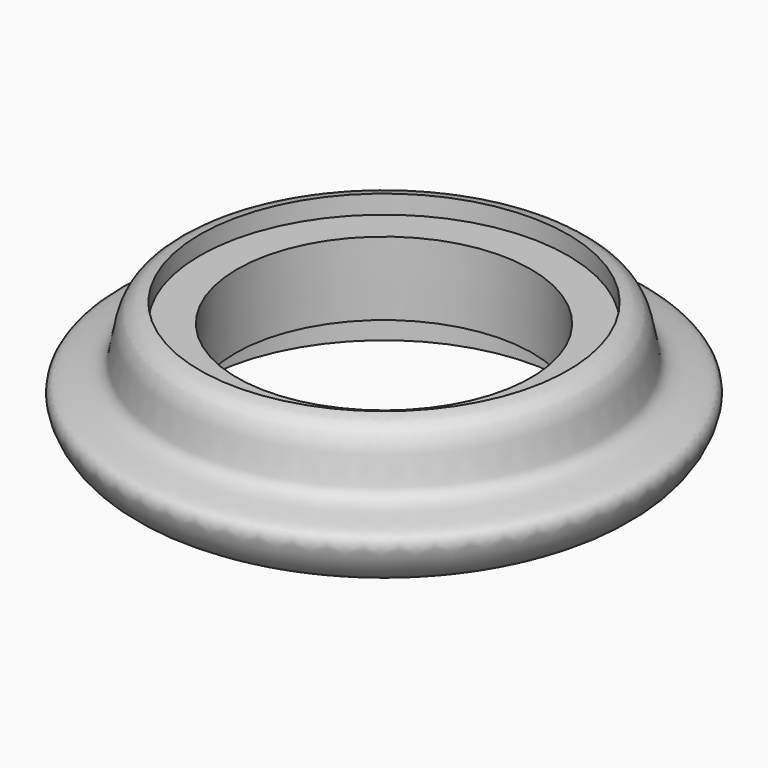
from build123d import *


with BuildPart() as f2:
    # F1 (on Front) → F2 (revolve)
    with BuildSketch(Plane.XZ):
        with BuildLine():
            Line((-63.5, 12.7), (-50.8, 12.7))
            Line((-50.8, 12.7), (-50.2653025438, 38.1))
            Line((-50.2653025438, 38.1), (-62.9653025438, 38.1))
            Line((-62.9653025438, 38.1), (-62.9653025438, 44.45))
            add(Edge.make_bspline(
                [(-62.9653025438, 44.45), (-74.9104547405, 43.1885422797), (-67.59303228, 19.9814267721), (-92.8225097742, 23.7190623387), (-88.7503265601, 9.5963583533), (-80.0133852219, 1.7752885016), (-69.8651371702, 0), (-63.5, 0)],
                knots=[0, 0, 0, 0, 0.2457951645, 0.4502375983, 0.6099650828, 0.78793813, 1, 1, 1, 1], degree=3))
            Line((-63.5, 0), (-63.5, 12.7))
        make_face()
    revolve(axis=Axis((0, 0, 19.2106347531), (0, 0, -1)))


solid = f2.part
